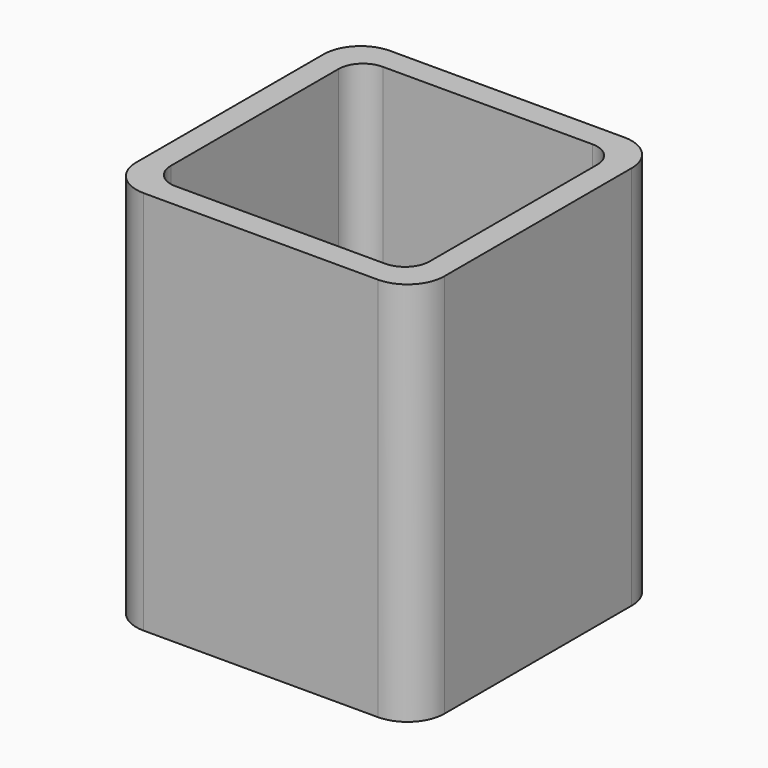
from build123d import *

# Parameters (mm, degrees)
EXTRUDE_DEPTH = 50


with BuildPart() as part:
    # Sketch → Extrude (new body)
    with BuildSketch(Plane.XY):
        with BuildLine():
            Line((-15.2, 20), (15.2, 20))
            ThreePointArc((20, 15.2), (18.594113, 18.594113), (15.2, 20))
            Line((20, 15.2), (20, -15.2))
            ThreePointArc((15.2, -20), (18.594113, -18.594113), (20, -15.2))
            Line((15.2, -20), (-15.2, -20))
            ThreePointArc((-20, -15.2), (-18.594113, -18.594113), (-15.2, -20))
            Line((-20, -15.2), (-20, 15.2))
            ThreePointArc((-15.2, 20), (-18.594113, 18.594113), (-20, 15.2))
        make_face()
        with BuildLine():
            Line((-13.6, 16.8), (13.6, 16.8))
            ThreePointArc((16.8, 13.6), (15.862742, 15.862742), (13.6, 16.8))
            Line((16.8, 13.6), (16.8, -13.6))
            ThreePointArc((13.6, -16.8), (15.862742, -15.862742), (16.8, -13.6))
            Line((13.6, -16.8), (-13.6, -16.8))
            ThreePointArc((-16.8, -13.6), (-15.862742, -15.862742), (-13.6, -16.8))
            Line((-16.8, -13.6), (-16.8, 13.6))
            ThreePointArc((-13.6, 16.8), (-15.862742, 15.862742), (-16.8, 13.6))
        make_face(mode=Mode.SUBTRACT)
    extrude(amount=EXTRUDE_DEPTH)


solid = part.part
